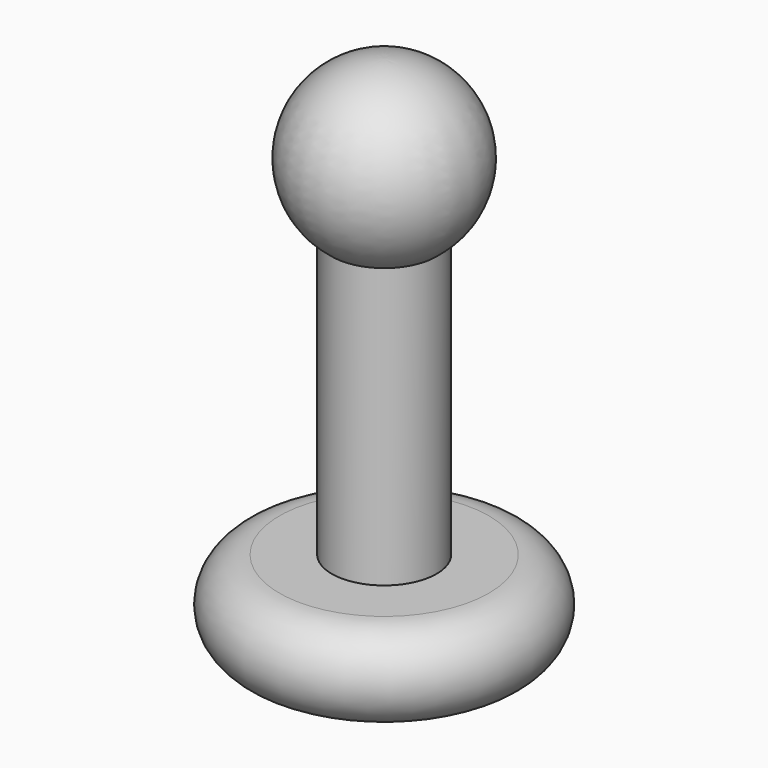
from build123d import *


with BuildPart() as part:
    # Sketch → Revolution (revolve)
    with BuildSketch(Plane.XZ):
        with BuildLine():
            Line((0, 0), (6, 0))
            ThreePointArc((6, 0), (8.5, 2.5), (6, 5))
            Line((6, 5), (0, 5))
            Line((0, 5), (0, 0))
        make_face()
        with BuildLine():
            Line((0, 5), (3, 5))
            Line((3, 5), (3, 21))
            ThreePointArc((3, 21), (4.743416, 26.581139), (0, 30))
            Line((0, 5), (0, 30))
        make_face()
    revolve(axis=Axis((0, 0, 0), (0, 0, 1)))


solid = part.part
